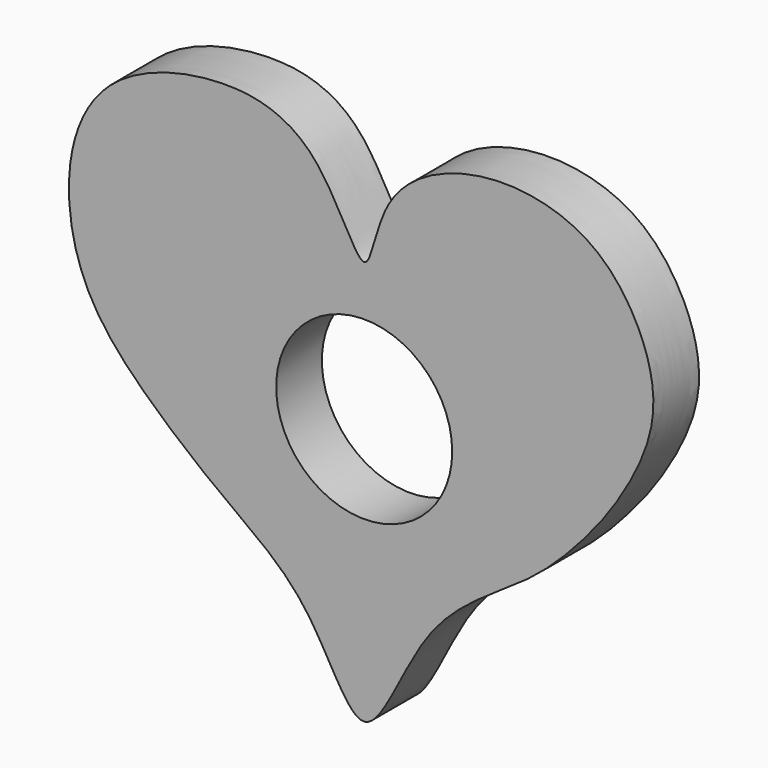
from build123d import *

# Parameters (mm, degrees)
F0_R     = 10.6856027314
F1_DEPTH = 6.9342


with BuildPart() as f1:
    # F0 (on Front) → F1 (new body)
    with BuildSketch(Plane.XZ):
        with BuildLine():
            add(Edge.make_bspline(
                [(0, -32.3170013726), (2.2593754961, -32.1913183037), (6.8167558899, -17.9150047828), (19.8299213677, -11.6293826474), (27.2508872741, -3.6529175582), (31.3579019094, 1.831880557), (36.460665099, 11.6745887656), (33.3654454137, 22.0409985779), (26.6640952662, 29.6058453705), (14.0285051919, 31.9737420993), (1.6945401626, 26.2204908206), (0.5685863039, 12.0292979028), (-5.2379371229, 28.3309458059), (-17.2248191754, 31.5155811359), (-31.6154267379, 27.4832884356), (-36.8734887352, 16.1496660756), (-34.8789618327, 2.5439452856), (-26.0101671366, -6.8297269658), (-16.2109232881, -14.7303999014), (-6.2642625178, -21.3713461629), (-2.012798678, -32.4289680268), (0, -32.3170013726)],
                knots=[0, 0, 0, 0, 0.0582716308, 0.1195195369, 0.1692791849, 0.210155519, 0.2602486383, 0.3098312763, 0.3578138071, 0.4119283282, 0.4679566031, 0.5111194733, 0.5619515147, 0.6164767955, 0.6739588558, 0.726194431, 0.782054107, 0.8372095342, 0.891945051, 0.9480878403, 1, 1, 1, 1], degree=3))
        make_face()
        Circle(F0_R, mode=Mode.SUBTRACT)
    extrude(amount=F1_DEPTH)


solid = f1.part
